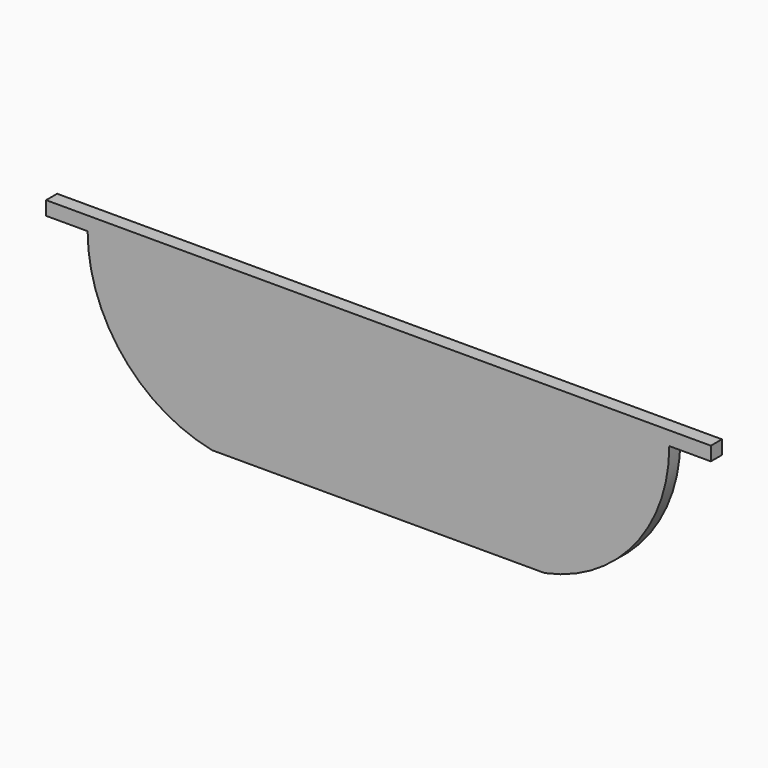
from build123d import *

# Parameters (mm, degrees)
F1_DEPTH = 6.35


with BuildPart() as f1:
    # F0 (on Front) → F1 (new body)
    with BuildSketch(Plane.XZ):
        with BuildLine():
            Line((-72.007763, 0), (-97.407763, 0))
            Line((-97.407763, 0), (-97.407763, -6.35))
            Line((-97.407763, -6.35), (-78.357763, -6.35))
            ThreePointArc((-78.357763, -6.35), (-62.249709, -51.475229), (-21.207763, -76.2))
            Line((-21.207763, -76.2), (131.192237, -76.2))
            ThreePointArc((131.192237, -76.2), (172.234183, -51.475229), (188.342237, -6.35))
            Line((188.342237, -6.35), (207.392237, -6.35))
            Line((207.392237, -6.35), (207.392237, 0))
            Line((207.392237, 0), (181.992237, 0))
            Line((181.992237, 0), (54.992237, 0))
            Line((54.992237, 0), (-72.007763, 0))
        make_face()
    extrude(amount=F1_DEPTH)


solid = f1.part
